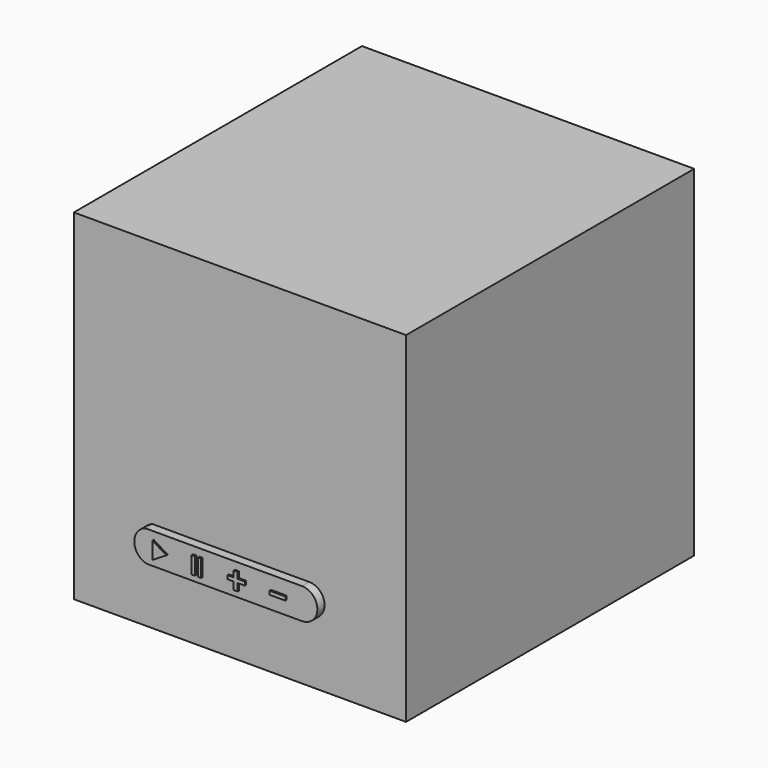
from build123d import *

# Parameters (mm, degrees)
F0_W      = 93.715839088
F0_H      = 96.0587337613
F1_DEPTH  = 101.6
F2_W      = 8.2945693284
F2_H      = 8.6991842836
F2_W_2    = 8.0922637135
F2_W_3    = 8.2945674658
F2_W_4    = 7.8899562359
F3_DEPTH  = 2.54
F5_DEPTH  = 3
F6_W      = 0.9676124901
F6_H      = 4.834022373
F6_W_2    = 0.8269865066
F7_DEPTH  = 0.5
F8_W      = 1.12604897
F8_H      = 4.834022373
F9_DEPTH  = 0.5
F10_W     = 4.8627895303
F10_H     = 1.0272618383
F11_DEPTH = 0.5
F12_W     = 4.4415825978
F12_H     = 1.0272618383
F13_DEPTH = 0.5
F14_R     = 1.3332383726
F15_DEPTH = 6.35
F16_R     = 0.5696263833
F17_DEPTH = 7.62


with BuildPart() as f1:
    # F0 (on Front) → F1 (new body)
    with BuildSketch(Plane.XZ):
        with Locations((-0.6508044899, 1.3016089797)):
            Rectangle(F0_W, F0_H)
    extrude(amount=F1_DEPTH)

    # F2 (on face) → F3 (join)
    with BuildSketch(Plane.XZ.offset(101.6)):
        with BuildLine():
            Line((-19.5664688945, -20.8509583026), (-25.2310521901, -20.8509583026))
            ThreePointArc((-25.2310521901, -20.8509583026), (-28.4223170669, -25.358390925), (-24.8264390975, -29.5501425862))
            Line((-24.8264390975, -29.5501425862), (-19.5664688945, -29.5501425862))
            Line((-19.5664688945, -29.5501425862), (-19.5664688945, -20.8509583026))
        make_face()
        with Locations((-15.4191842303, -25.2005504444)):
            Rectangle(F2_W, F2_H)
        with Locations((-7.2257677093, -25.2005504444)):
            Rectangle(F2_W_2, F2_H)
        with Locations((0.9676478803, -25.2005504444)):
            Rectangle(F2_W_3, F2_H)
        with Locations((9.0599097311, -25.2005504444)):
            Rectangle(F2_W_4, F2_H)
        with BuildLine():
            Line((18.8717804849, -20.8509583026), (13.0048878491, -20.8509583026))
            Line((13.0048878491, -20.8509583026), (13.0048878491, -29.5501425862))
            Line((13.0048878491, -29.5501425862), (18.8717804849, -29.5501425862))
            ThreePointArc((18.8717804849, -29.5501425862), (23.2213726267, -25.2005504444), (18.8717804849, -20.8509583026))
        make_face()
    extrude(amount=F3_DEPTH)

    # F4 (on face) → F5 (join)
    with BuildSketch(Plane.XZ.offset(101.6)):
        Polygon((-19.0216936171, -25.3522377461), (-22.935193032, -22.9352265596), (-22.935193032, -27.7692489326), align=None)
    extrude(amount=F5_DEPTH)

    # F6 (on face) → F7 (join)
    with BuildSketch(Plane.XZ.offset(104.14)):
        with Locations((-11.4101376384, -25.3522377461)):
            Rectangle(F6_W, F6_H)
        with Locations((-9.6004614606, -25.3522377461)):
            Rectangle(F6_W_2, F6_H)
    extrude(amount=F7_DEPTH)

    # F8 (on face) → F9 (join)
    with BuildSketch(Plane.XZ.offset(104.14)):
        with Locations((0.563024485, -25.3522377461)):
            Rectangle(F8_W, F8_H)
    extrude(amount=F9_DEPTH)

    # F10 (on face) → F11 (join)
    with BuildSketch(Plane.XZ.offset(104.14)):
        with Locations((0.7227337919, -25.1438906416)):
            Rectangle(F10_W, F10_H)
    extrude(amount=F11_DEPTH)

    # F12 (on face) → F13 (join)
    with BuildSketch(Plane.XZ.offset(104.14)):
        with Locations((12.3583828099, -25.1438906416)):
            Rectangle(F12_W, F12_H)
    extrude(amount=F13_DEPTH)

    # F14 (on face) → F15 (cut)
    with BuildSketch(Plane(origin=(0, 0, 0), x_dir=(-1, 0, 0), z_dir=(0, 1, 0))):
        with Locations((-43.6146184802, -43.905235827)):
            Circle(F14_R)
    extrude(amount=-F15_DEPTH, mode=Mode.SUBTRACT)

    # F16 (on face) → F17 (cut)
    with BuildSketch(Plane(origin=(0, 0, 0), x_dir=(-1, 0, 0), z_dir=(0, 1, 0))):
        with Locations((-43.6146184802, -43.905235827)):
            Circle(F16_R)
    extrude(amount=-F17_DEPTH, mode=Mode.SUBTRACT)


solid = f1.part
